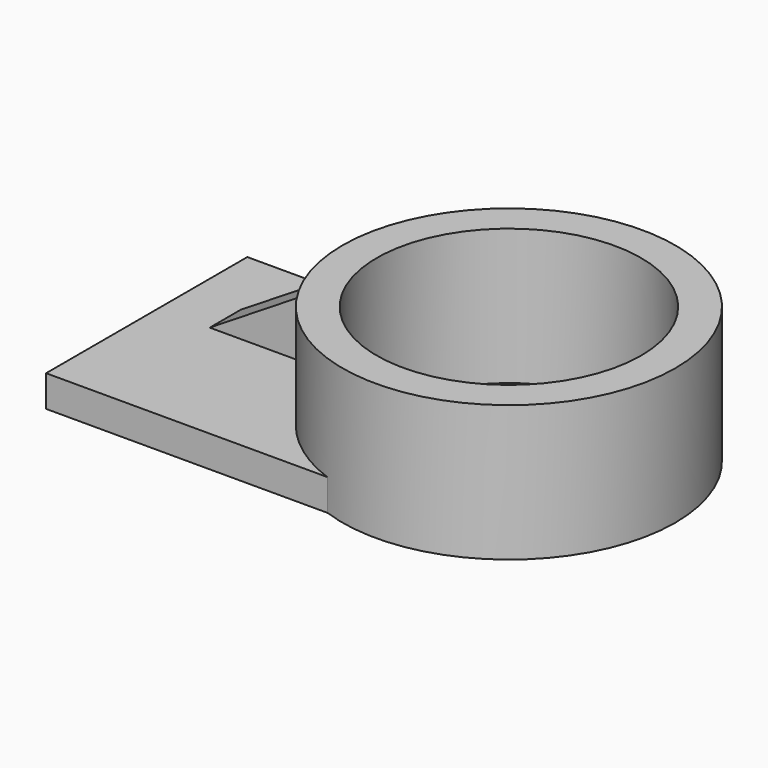
from build123d import *

# Parameters (mm, degrees)
F1_DEPTH = 8.636
F2_R     = 45.701569
F2_R_2   = 36.306047
F3_DEPTH = 37.338
F4_W     = 38.73572
F4_H     = 10.633336
F5_DEPTH = 29.21
F7_DEPTH = 25.4


with BuildPart() as f1:
    # F0 (on Top) → F1 (new body)
    with BuildSketch(Plane.XY):
        with BuildLine():
            Line((-7.171682, 26.046421), (-65.475807, 26.046421))
            Line((-65.475807, 26.046421), (-65.475807, -43.026961))
            Line((-65.475807, -43.026961), (12.891302, -43.026961))
            ThreePointArc((12.891302, -43.026961), (-13.155731, -13.142128), (-7.171682, 26.046421))
        make_face()
    extrude(amount=F1_DEPTH)

    # F2 (on Top) → F3 (join)
    with BuildSketch(Plane.XY):
        with Locations((27.197642, 0)):
            Circle(F2_R)
        with Locations((27.197642, 0)):
            Circle(F2_R_2, mode=Mode.SUBTRACT)
    extrude(amount=F3_DEPTH)

    # F4 (on Top) → F5 (join)
    with BuildSketch(Plane.XY):
        with Locations((-31.920592, 0.737219)):
            Rectangle(F4_W, F4_H)
    extrude(amount=F5_DEPTH)

    # F6 (on face) → F7 (cut)
    with BuildSketch(Plane.XZ.offset(4.579449)):
        Polygon((-51.288452, 8.636), (-18.27391, 29.21), (-51.288452, 29.21), align=None)
    extrude(amount=-F7_DEPTH, mode=Mode.SUBTRACT)


solid = f1.part
